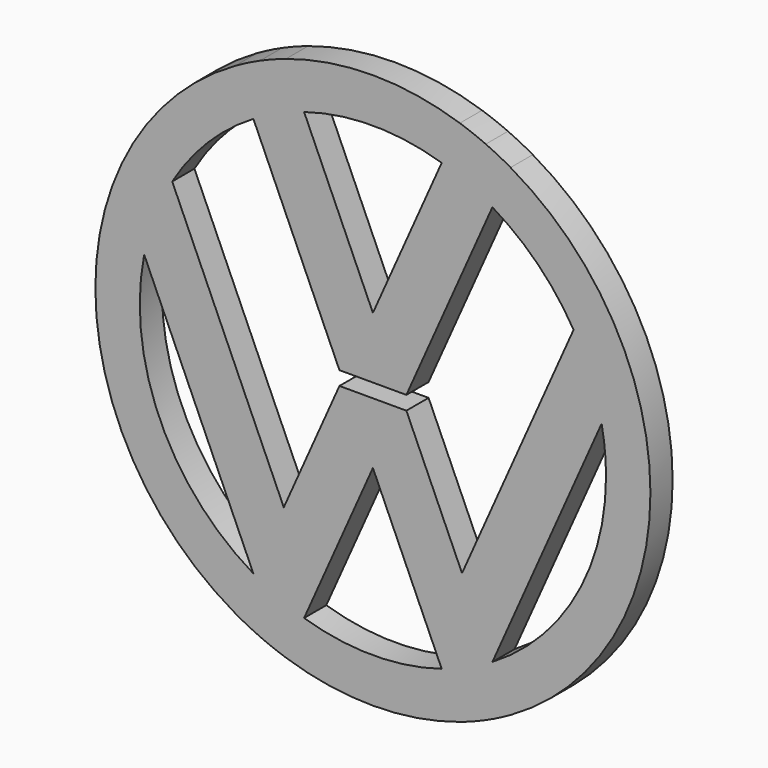
from build123d import *

# Parameters (mm, degrees)
F1_DEPTH = 25


with BuildPart() as f1:
    # F0 (on Front) → F1 (new body)
    with BuildSketch(Plane.XZ):
        with BuildLine():
            Line((-107.6459087959, 180.3118363267), (-124.0130989589, 217.0731473182))
            ThreePointArc((-124.0130989589, 217.0731473182), (-250, 0), (-124.0130989589, -217.0731473182))
            Line((-124.0130989589, -217.0731473182), (-107.6459087959, -180.3118363267))
            ThreePointArc((-107.6459087959, -180.3118363267), (-191.8445461049, -85.4146950459), (-206.0269803632, 40.6556682694))
            ThreePointArc((-206.0269803632, 40.6556682694), (-196.2137291061, 74.8343003594), (-180.7744438555, 106.8672094177))
            ThreePointArc((-180.7744438555, 106.8672094177), (-148.8123088368, 148.1718486712), (-107.6459087959, 180.3118363267))
        make_face()
        with BuildLine():
            Line((-85.4146950459, 191.8445461049), (-101.684160769, 228.3863644107))
            ThreePointArc((-101.684160769, 228.3863644107), (-112.9903114537, 223.0093933394), (-124.0130989589, 217.0731473182))
            Line((-124.0130989589, 217.0731473182), (-107.6459087959, 180.3118363267))
            ThreePointArc((-107.6459087959, 180.3118363267), (-96.7023786556, 186.4098977049), (-85.4146950459, 191.8445461049))
        make_face()
        with BuildLine():
            Line((-61.9686359138, 200.6486684805), (-78.3358260768, 237.4099794719))
            ThreePointArc((-78.3358260768, 237.4099794719), (-90.1230010773, 233.1905758748), (-101.684160769, 228.3863644107))
            Line((-101.684160769, 228.3863644107), (-85.4146950459, 191.8445461049))
            ThreePointArc((-85.4146950459, 191.8445461049), (-73.823029631, 196.5964401918), (-61.9686359138, 200.6486684805))
        make_face()
        with BuildLine():
            Line((61.9686359138, 200.6486684805), (78.3358260768, 237.4099794719))
            ThreePointArc((78.3358260768, 237.4099794719), (0, 250), (-78.3358260768, 237.4099794719))
            Line((-78.3358260768, 237.4099794719), (-61.9686359138, 200.6486684805))
            ThreePointArc((-61.9686359138, 200.6486684805), (0, 210), (61.9686359138, 200.6486684805))
        make_face()
        with BuildLine():
            Line((85.4146950459, 191.8445461049), (101.684160769, 228.3863644107))
            ThreePointArc((101.684160769, 228.3863644107), (90.1230010773, 233.1905758748), (78.3358260768, 237.4099794719))
            Line((78.3358260768, 237.4099794719), (61.9686359138, 200.6486684805))
            ThreePointArc((61.9686359138, 200.6486684805), (73.823029631, 196.5964401918), (85.4146950459, 191.8445461049))
        make_face()
        with BuildLine():
            ThreePointArc((124.0130989589, -217.0731473182), (216.2212694669, -125.4924803729), (250, 0))
            ThreePointArc((250, 0), (216.2212694669, 125.4924803729), (124.0130989589, 217.0731473182))
            Line((124.0130989589, 217.0731473182), (107.6459087959, 180.3118363267))
            ThreePointArc((107.6459087959, 180.3118363267), (148.8123088368, 148.1718486712), (180.7744438555, 106.8672094177))
            ThreePointArc((180.7744438555, 106.8672094177), (196.2137291061, 74.8343003594), (206.0269803632, 40.6556682694))
            ThreePointArc((206.0269803632, 40.6556682694), (209.0043849735, 20.4246679745), (210, 0))
            ThreePointArc((210, 0), (182.627545632, -103.6686045842), (107.6459087959, -180.3118363267))
            Line((107.6459087959, -180.3118363267), (124.0130989589, -217.0731473182))
        make_face()
        with BuildLine():
            Line((107.6459087959, 180.3118363267), (124.0130989589, 217.0731473182))
            ThreePointArc((124.0130989589, 217.0731473182), (112.9903114537, 223.0093933394), (101.684160769, 228.3863644107))
            Line((101.684160769, 228.3863644107), (85.4146950459, 191.8445461049))
            ThreePointArc((85.4146950459, 191.8445461049), (96.7023786556, 186.4098977049), (107.6459087959, 180.3118363267))
        make_face()
        with BuildLine():
            Line((80.2800018333, -118.8470029373), (107.6459087959, -180.3118363267))
            Line((107.6459087959, -180.3118363267), (206.0269803632, 40.6556682694))
            ThreePointArc((206.0269803632, 40.6556682694), (196.2137291061, 74.8343003594), (180.7744438555, 106.8672094177))
            Line((180.7744438555, 106.8672094177), (80.2800018333, -118.8470029373))
        make_face()
        with BuildLine():
            ThreePointArc((101.6841607689, -228.3863644107), (112.9903114537, -223.0093933394), (124.0130989589, -217.0731473182))
            Line((124.0130989589, -217.0731473182), (107.6459087959, -180.3118363267))
            ThreePointArc((107.6459087959, -180.3118363267), (96.7023786556, -186.4098977049), (85.4146950459, -191.8445461049))
            Line((85.4146950459, -191.8445461049), (101.684160769, -228.3863644107))
        make_face()
        with BuildLine():
            ThreePointArc((78.3358260768, -237.4099794719), (90.1230010773, -233.1905758748), (101.6841607689, -228.3863644107))
            Line((101.684160769, -228.3863644107), (85.4146950459, -191.8445461049))
            ThreePointArc((85.4146950459, -191.8445461049), (73.823029631, -196.5964401918), (61.9686359138, -200.6486684805))
            Line((61.9686359138, -200.6486684805), (78.3358260768, -237.4099794719))
        make_face()
        with BuildLine():
            ThreePointArc((61.9686359138, -200.6486684805), (73.823029631, -196.5964401918), (85.4146950459, -191.8445461049))
            Line((85.4146950459, -191.8445461049), (2.7826792832, -6.25))
            Line((2.7826792832, -6.25), (-2.7826792832, -6.25))
            Line((-2.7826792832, -6.25), (-85.4146950459, -191.8445461049))
            ThreePointArc((-85.4146950459, -191.8445461049), (-73.823029631, -196.5964401918), (-61.9686359138, -200.6486684805))
            Line((-61.9686359138, -200.6486684805), (0, -61.4648333894))
            Line((0, -61.4648333894), (61.9686359138, -200.6486684805))
        make_face()
        with BuildLine():
            ThreePointArc((85.4146950459, -191.8445461049), (96.7023786556, -186.4098977049), (107.6459087959, -180.3118363267))
            Line((107.6459087959, -180.3118363267), (80.2800018333, -118.8470029373))
            Line((80.2800018333, -118.8470029373), (30.1485862458, -6.25))
            Line((30.1485862458, -6.25), (2.7826792832, -6.25))
            Line((2.7826792832, -6.25), (85.4146950459, -191.8445461049))
        make_face()
        with BuildLine():
            ThreePointArc((-78.3358260768, -237.4099794719), (0, -250), (78.3358260768, -237.4099794719))
            Line((78.3358260768, -237.4099794719), (61.9686359138, -200.6486684805))
            ThreePointArc((61.9686359138, -200.6486684805), (0, -210), (-61.9686359138, -200.6486684805))
            Line((-61.9686359138, -200.6486684805), (-78.3358260768, -237.4099794719))
        make_face()
        with BuildLine():
            ThreePointArc((-101.684160769, -228.3863644107), (-90.1230010773, -233.1905758748), (-78.3358260768, -237.4099794719))
            Line((-78.3358260768, -237.4099794719), (-61.9686359138, -200.6486684805))
            ThreePointArc((-61.9686359138, -200.6486684805), (-73.823029631, -196.5964401918), (-85.4146950459, -191.8445461049))
            Line((-85.4146950459, -191.8445461049), (-101.684160769, -228.3863644107))
        make_face()
        with BuildLine():
            ThreePointArc((-124.0130989589, -217.0731473182), (-112.9903114537, -223.0093933394), (-101.684160769, -228.3863644107))
            Line((-101.684160769, -228.3863644107), (-85.4146950459, -191.8445461049))
            ThreePointArc((-85.4146950459, -191.8445461049), (-96.7023786556, -186.4098977049), (-107.6459087959, -180.3118363267))
            Line((-107.6459087959, -180.3118363267), (-124.0130989589, -217.0731473182))
        make_face()
        with BuildLine():
            Line((-85.4146950459, -191.8445461049), (-2.7826792832, -6.25))
            Line((-2.7826792832, -6.25), (-30.1485862458, -6.25))
            Line((-30.1485862458, -6.25), (-80.2800018333, -118.8470029373))
            Line((-80.2800018333, -118.8470029373), (-107.6459087959, -180.3118363267))
            ThreePointArc((-107.6459087959, -180.3118363267), (-96.7023786556, -186.4098977049), (-85.4146950459, -191.8445461049))
        make_face()
        with BuildLine():
            Line((-206.0269803632, 40.6556682694), (-107.6459087959, -180.3118363267))
            Line((-107.6459087959, -180.3118363267), (-80.2800018333, -118.8470029373))
            Line((-80.2800018333, -118.8470029373), (-180.7744438555, 106.8672094177))
            ThreePointArc((-180.7744438555, 106.8672094177), (-196.2137291061, 74.8343003594), (-206.0269803632, 40.6556682694))
        make_face()
        with BuildLine():
            Line((-30.1485862458, 6.25), (-2.7826792832, 6.25))
            Line((-2.7826792832, 6.25), (-85.4146950459, 191.8445461049))
            ThreePointArc((-85.4146950459, 191.8445461049), (-96.7023786556, 186.4098977049), (-107.6459087959, 180.3118363267))
            Line((-107.6459087959, 180.3118363267), (-30.1485862458, 6.25))
        make_face()
        with BuildLine():
            Line((30.1485862458, 6.25), (107.6459087959, 180.3118363267))
            ThreePointArc((107.6459087959, 180.3118363267), (96.7023786556, 186.4098977049), (85.4146950459, 191.8445461049))
            Line((85.4146950459, 191.8445461049), (2.7826792832, 6.25))
            Line((2.7826792832, 6.25), (30.1485862458, 6.25))
        make_face()
        with BuildLine():
            Line((2.7826792832, 6.25), (85.4146950459, 191.8445461049))
            ThreePointArc((85.4146950459, 191.8445461049), (73.823029631, 196.5964401918), (61.9686359138, 200.6486684805))
            Line((61.9686359138, 200.6486684805), (0, 61.4648333894))
            Line((0, 61.4648333894), (-61.9686359138, 200.6486684805))
            ThreePointArc((-61.9686359138, 200.6486684805), (-73.823029631, 196.5964401918), (-85.4146950459, 191.8445461049))
            Line((-85.4146950459, 191.8445461049), (-2.7826792832, 6.25))
            Line((-2.7826792832, 6.25), (2.7826792832, 6.25))
        make_face()
    extrude(amount=F1_DEPTH)


solid = f1.part
